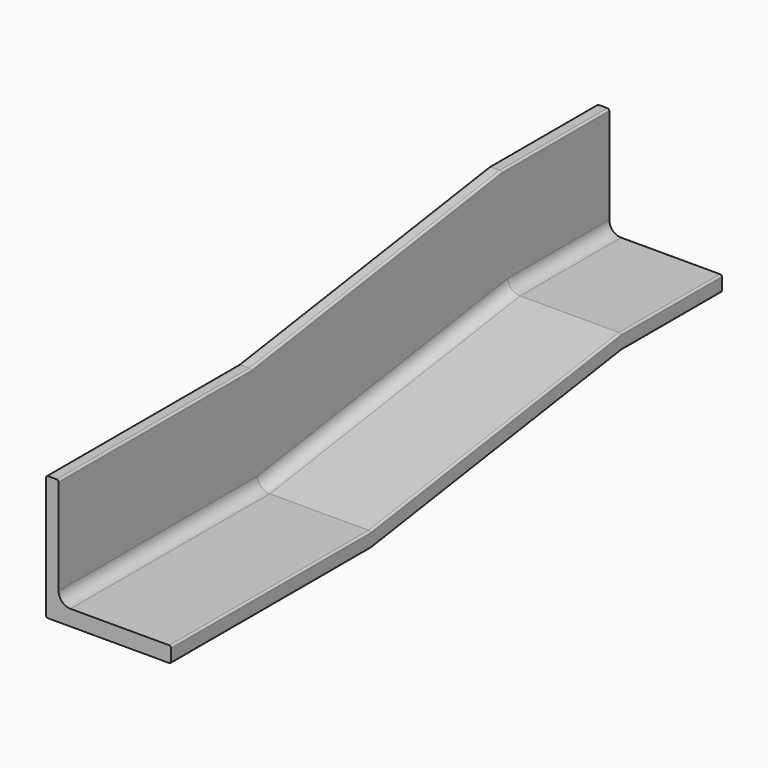
from build123d import *


with BuildPart() as f2:
    # F2: sweep along a path in F1
    with BuildLine(Plane.YZ) as f2_path:
        Line((0, 0), (101.6, 0))
        Line((101.6, 0), (228.6, 19.05))
        Line((228.6, 19.05), (279.4, 19.05))
    # F0 (on Front) → F2 (sweep)
    with BuildSketch(Plane.XZ):
        with BuildLine():
            ThreePointArc((0.7874, 50.8), (0.2306241205, 50.5693758795), (0, 50.0126))
            Line((0, 50.0126), (0, 0.7874))
            ThreePointArc((0, 0.7874), (0.2306241205, 0.2306241205), (0.7874, 0))
            Line((0.7874, 0), (50.0126, 0))
            ThreePointArc((50.0126, 0), (50.5693758795, 0.2306241205), (50.8, 0.7874))
            Line((50.8, 0.7874), (50.8, 5.5626))
            ThreePointArc((50.8, 5.5626), (50.5693758795, 6.1193758795), (50.0126, 6.35))
            Line((50.0126, 6.35), (9.906, 6.35))
            ThreePointArc((9.906, 6.35), (6.493502674, 7.763502674), (5.08, 11.176))
            Line((5.08, 11.176), (5.08, 50.0126))
            ThreePointArc((5.08, 50.0126), (4.8493758795, 50.5693758795), (4.2926, 50.8))
            Line((4.2926, 50.8), (0.7874, 50.8))
        make_face()
    sweep(path=f2_path.line, transition=Transition.RIGHT)


solid = f2.part
